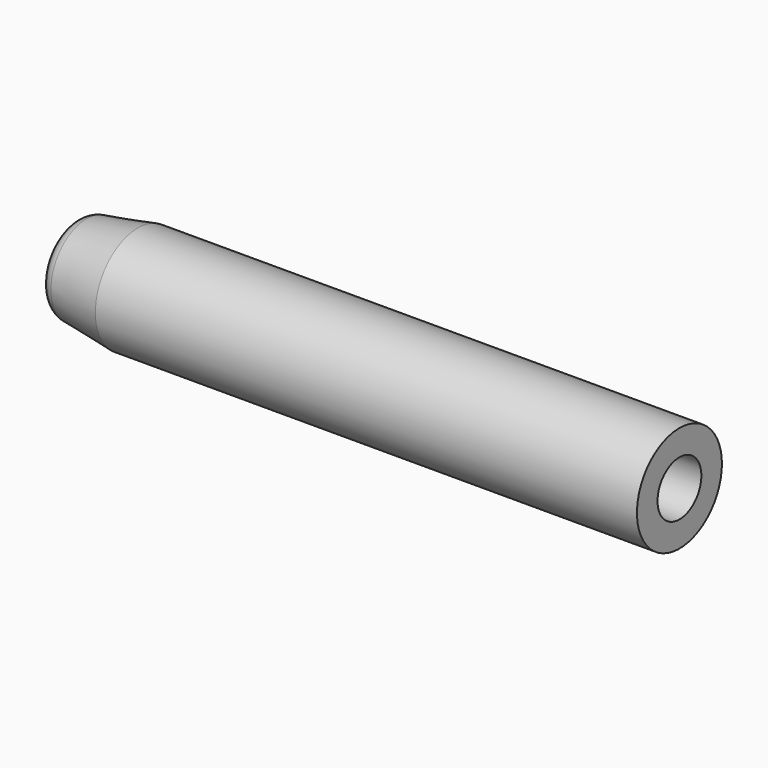
from build123d import *

# Parameters (mm, degrees)
F0_W = 64.77
F0_H = 3.0734


with BuildPart() as f2:
    # F0 (on Top) → F2 (revolve)
    with BuildSketch(Plane.XY):
        with Locations((32.385, 4.8133)):
            Rectangle(F0_W, F0_H)
        with Locations((32.385, 4.8133)):
            Rectangle(F0_W, F0_H)
    revolve(axis=Axis((0, 0, 0), (-1, 0, 0)))

    # F1 (on Top) → F3 (revolve)
    with BuildSketch(Plane.XY):
        with BuildLine():
            Line((4.572, 3.048), (0, 3.048))
            Line((0, 3.048), (0, 6.35))
            Line((0, 6.35), (-6.134301, 5.327616))
            ThreePointArc((-6.134301, 5.327616), (-7.19865, 4.723063), (-7.62, 3.573808))
            Line((-7.62, 3.573808), (-7.62, 0))
            Line((-7.62, 0), (7.62, 0))
            ThreePointArc((7.62, 0), (6.727261, 2.155261), (4.572, 3.048))
        make_face()
    revolve(axis=Axis((0, 0, 0), (-1, 0, 0)))


solid = f2.part
